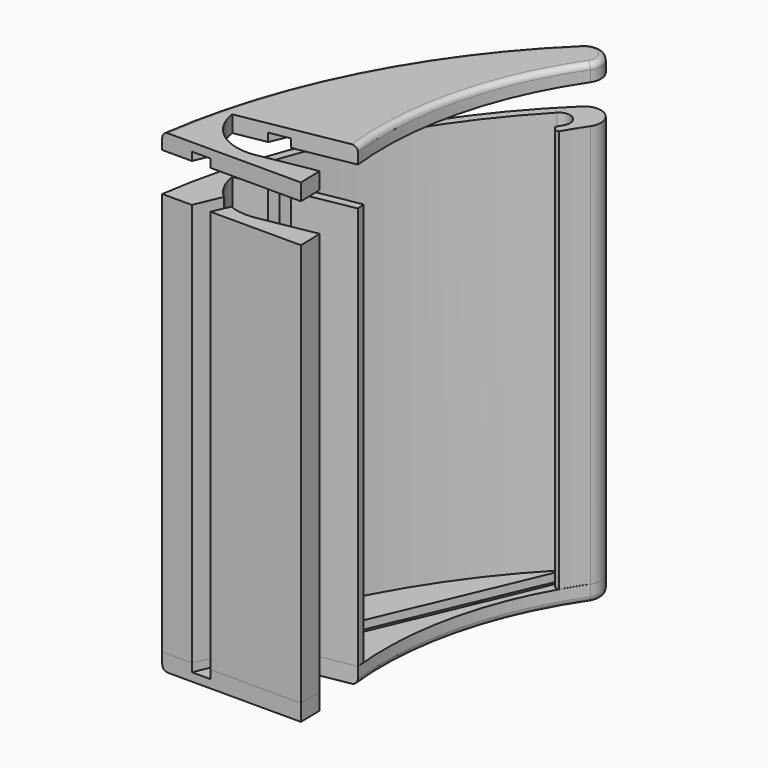
from build123d import *

# Parameters (mm, degrees)
F1_DEPTH = 3
F3_DEPTH = 1.5
F6_DEPTH = 73
F8_R     = 1
F9_R     = 1


with BuildPart() as f1:
    # F0 (on Top) → F1 (new body)
    with BuildSketch(Plane.XY):
        with BuildLine():
            Line((0, 0), (25.1138086896, 0))
            Line((25.1138086896, 0), (25.0219496666, 4.3704304844))
            Line((25.0219496666, 4.3704304844), (14.93563812, 2.56344391))
            ThreePointArc((14.93563812, 2.56344391), (8.0628712758, 4.159438542), (4.4855117871, 10.2409368811))
            Line((4.4855117871, 10.2409368811), (24.3829425915, 13.8056086803))
            ThreePointArc((24.3829425915, 13.8056086803), (25.7805627183, 34.7949655604), (34.3067951238, 54.0254051089))
            ThreePointArc((34.3067951238, 54.0254051089), (33.7243946279, 58.1447969682), (29.5667392269, 57.9948596671))
            ThreePointArc((29.5667392269, 57.9948596671), (9.9536753745, 31.4596878841), (0, 0))
        make_face()
    extrude(amount=-F1_DEPTH)

    # F2 (on face) → F3 (cut)
    with BuildSketch(Plane.XY):
        with BuildLine():
            Line((5.3663372301, 0), (8.7410803077, 0))
            Line((8.7410803077, 0), (10.0447398808, 3.0597517212))
            ThreePointArc((10.0447398808, 3.0597517212), (8.63725595, 3.7708123332), (7.3765235564, 4.7180039933))
            Line((7.3765235564, 4.7180039933), (5.3663372301, 0))
        make_face()
        Polygon((31.237378109, 52.7998929604), (28.3811374817, 54.01684315), (10.1630341787, 11.2580784486), (13.8166620739, 11.9126345293), align=None)
    extrude(amount=-F3_DEPTH, mode=Mode.SUBTRACT)


with BuildPart() as f6:
    # F5 (on face) → F6 (new body)
    with BuildSketch(Plane.XY):
        with BuildLine():
            ThreePointArc((31.8331169384, 50.0241250258), (33.0309009779, 52.0489097488), (34.3067951238, 54.0254051089))
            ThreePointArc((34.3067951238, 54.0254051089), (33.7243946279, 58.1447969682), (29.5667392269, 57.9948596671))
            ThreePointArc((29.5667392269, 57.9948596671), (9.9536753745, 31.4596878841), (0, 0))
            Line((0, 0), (5.3663372301, 0))
            Line((5.3663372301, 0), (7.3765235564, 4.7180039933))
            ThreePointArc((7.3765235564, 4.7180039933), (5.4342778468, 7.2194490483), (4.4855117871, 10.2409368811))
            Line((4.4855117871, 10.2409368811), (10.1630341787, 11.2580784486))
            Line((10.1630341787, 11.2580784486), (10.8659653877, 12.9078918055))
            Line((10.8659653877, 12.9078918055), (3.9259152051, 11.6645653974))
            ThreePointArc((3.9259152051, 11.6645653974), (13.2997819097, 34.5197789471), (28.044183302, 54.3397888104))
            ThreePointArc((28.044183302, 54.3397888104), (30.6987006163, 54.5463724131), (31.2061778728, 51.9326383426))
            ThreePointArc((31.2061778728, 51.9326383426), (30.8868062462, 51.3893939045), (30.5729935197, 50.8429194512))
            ThreePointArc((30.5729935197, 50.8429194512), (31.0211563475, 50.1535801269), (31.8331169384, 50.0241250258))
        make_face()
    extrude(amount=F6_DEPTH)


with BuildPart() as f6b:
    # F5 (on face) → F6, piece 2 (new body)
    with BuildSketch(Plane.XY):
        with BuildLine():
            Line((8.7410803077, 0), (25.1138086896, 0))
            Line((25.1138086896, 0), (25.0219496666, 4.3704304844))
            Line((25.0219496666, 4.3704304844), (14.93563812, 2.56344391))
            ThreePointArc((14.93563812, 2.56344391), (12.4554209462, 2.4689737195), (10.0447398808, 3.0597517212))
            Line((10.0447398808, 3.0597517212), (8.7410803077, 0))
        make_face()
    extrude(amount=F6_DEPTH)


with BuildPart() as f6c:
    # F5 (on face) → F6, piece 3 (new body)
    with BuildSketch(Plane.XY):
        with BuildLine():
            Line((13.8020408929, 11.9100151102), (24.3829425915, 13.8056086803))
            ThreePointArc((24.3829425915, 13.8056086803), (24.3058086676, 14.5541160496), (24.2380261197, 15.3035281194))
            Line((24.2380261197, 15.3035281194), (14.5022473149, 13.5593403149))
            Line((14.5022473149, 13.5593403149), (13.8020408929, 11.9100151102))
        make_face()
    extrude(amount=F6_DEPTH)


with BuildPart() as f7_1:
    # F7: instance of F1
    add(f1.part.mirror(Plane.XY.offset(40)))

    # F9
    f9_edges = [f7_1.edges().sort_by_distance(p)[0] for p in [
        (9.953675, 31.459688, 83),
        (25.780563, 34.794966, 83),
        (33.724395, 58.144797, 83),
    ]]
    fillet(f9_edges, radius=F9_R)


with BuildPart() as f1_1:
    add(f1.part)

    # F8
    f8_edges = [f1_1.edges().sort_by_distance(p)[0] for p in [
        (9.953675, 31.459688, -3),
    ]]
    fillet(f8_edges, radius=F8_R)


solid = Compound([f6.part, f6b.part, f6c.part, f7_1.part, f1_1.part])
